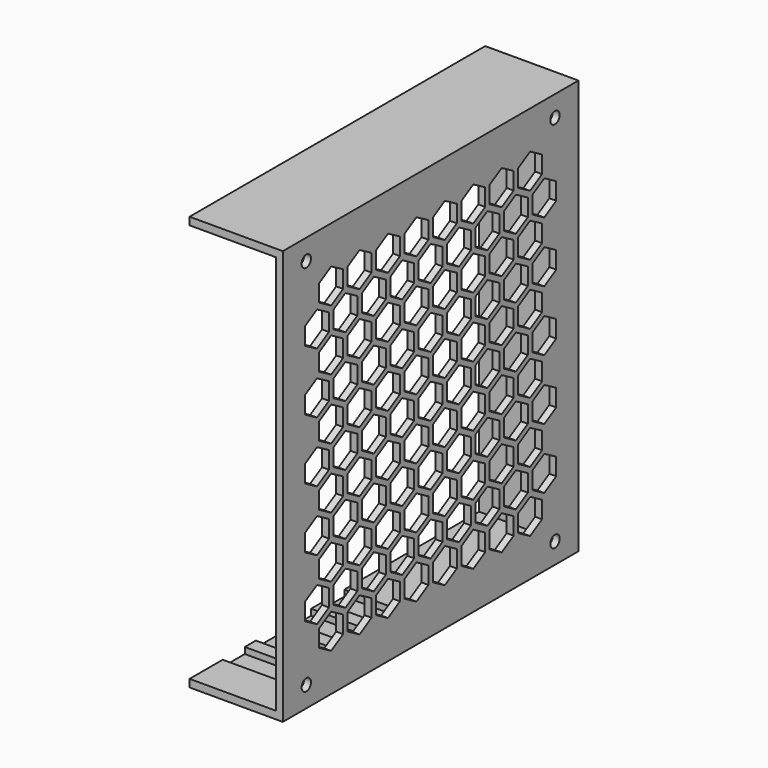
from build123d import *

# Parameters (mm, degrees)
SKETCH024_W                        = 107
SKETCH024_H                        = 120
SKETCH024_R                        = 1.7
PAD010_DEPTH                       = 2
PAD011_DEPTH                       = 25
POCKET014_DEPTH                    = 59.6
POCKET015_DEPTH                    = 353.05621
POCKET015_LINEARPATTERN_2_DEPTH    = 353.05621
POCKET015_LINEARPATTERN_3_DEPTH    = 353.05621
POCKET015_LINEARPATTERN_4_DEPTH    = 353.05621
POCKET015_LINEARPATTERN_5_DEPTH    = 353.05621
POCKET015_LINEARPATTERN_6_DEPTH    = 353.05621
POCKET015_LINEARPATTERN_7_DEPTH    = 353.05621
POCKET015_LINEARPATTERN_8_DEPTH    = 353.05621
LINEARPATTERN001_COUNT             = 6
LINEARPATTERN001_PITCH             = 17.6
POCKET016_DEPTH                    = 353.05621
POCKET016_LINEARPATTERN002_2_DEPTH = 353.05621
POCKET016_LINEARPATTERN002_3_DEPTH = 353.05621
POCKET016_LINEARPATTERN002_4_DEPTH = 353.05621
POCKET016_LINEARPATTERN002_5_DEPTH = 353.05621
POCKET016_LINEARPATTERN002_6_DEPTH = 353.05621
POCKET016_LINEARPATTERN002_7_DEPTH = 353.05621
POCKET016_LINEARPATTERN002_8_DEPTH = 353.05621
POCKET016_LINEARPATTERN002_9_DEPTH = 353.05621
LINEARPATTERN003_COUNT             = 5
LINEARPATTERN003_PITCH             = 17.557


with BuildPart() as part:
    # Sketch024 → Pad010 (new body)
    with BuildSketch(Plane.YZ.offset(25)):
        with Locations((53.5, 60)):
            Rectangle(SKETCH024_W, SKETCH024_H)
        with Locations((8.5, 114)):
            Circle(SKETCH024_R, mode=Mode.SUBTRACT)
        with Locations((98.5, 114)):
            Circle(SKETCH024_R, mode=Mode.SUBTRACT)
        with Locations((98.5, 6)):
            Circle(SKETCH024_R, mode=Mode.SUBTRACT)
        with Locations((8.5, 6)):
            Circle(SKETCH024_R, mode=Mode.SUBTRACT)
    extrude(amount=PAD010_DEPTH)

    # Sketch025 → Pad011 (join)
    with BuildSketch(Plane.YZ.offset(25)):
        Polygon((0, 0), (0, 2.2), (104.8, 2.2), (104.8, 117.8), (0, 117.8), (0, 120), (107, 120), (107, 0), align=None)
    extrude(amount=-PAD011_DEPTH)

    # Sketch026 → Pocket014 (cut, symmetric)
    with BuildSketch(Plane.XY.offset(60)):
        with BuildLine():
            Line((0, 20), (16, 20))
            ThreePointArc((16, 12), (20, 16), (16, 20))
            Line((16, 12), (0, 12))
            Line((0, 12), (0, 20))
        make_face()
        with BuildLine():
            Line((0, 32), (16, 32))
            ThreePointArc((16, 24), (20, 28), (16, 32))
            Line((16, 24), (0, 24))
            Line((0, 24), (0, 32))
        make_face()
        with BuildLine():
            Line((0, 44), (16, 44))
            ThreePointArc((16, 36), (20, 40), (16, 44))
            Line((16, 36), (0, 36))
            Line((0, 36), (0, 44))
        make_face()
        with BuildLine():
            Line((0, 56), (16, 56))
            ThreePointArc((16, 48), (20, 52), (16, 56))
            Line((16, 48), (0, 48))
            Line((0, 48), (0, 56))
        make_face()
    extrude(amount=POCKET014_DEPTH, both=True, mode=Mode.SUBTRACT)

    # Sketch027 → Pocket015 (cut, through all)
    with BuildSketch(Plane.YZ.offset(27)):
        Polygon((13.169873, 106.5), (13.169873, 101.5), (17.5, 99), (21.830127, 101.5), (21.830127, 106.5), (17.5, 109), align=None)
    pocket015 = extrude(amount=-POCKET015_DEPTH, mode=Mode.SUBTRACT)

    # Sketch027 LinearPattern 2 → Pocket015 LinearPattern 2 (cut, through all)
    with BuildSketch(Plane(origin=(27, 10.285714, 0), x_dir=(0, 1, 0), z_dir=(1, 0, 0))):
        Polygon((13.169873, 106.5), (13.169873, 101.5), (17.5, 99), (21.830127, 101.5), (21.830127, 106.5), (17.5, 109), align=None)
    pocket015_linearpattern_2 = extrude(amount=-POCKET015_LINEARPATTERN_2_DEPTH, mode=Mode.SUBTRACT)

    # Sketch027 LinearPattern 3 → Pocket015 LinearPattern 3 (cut, through all)
    with BuildSketch(Plane(origin=(27, 20.571429, 0), x_dir=(0, 1, 0), z_dir=(1, 0, 0))):
        Polygon((13.169873, 106.5), (13.169873, 101.5), (17.5, 99), (21.830127, 101.5), (21.830127, 106.5), (17.5, 109), align=None)
    pocket015_linearpattern_3 = extrude(amount=-POCKET015_LINEARPATTERN_3_DEPTH, mode=Mode.SUBTRACT)

    # Sketch027 LinearPattern 4 → Pocket015 LinearPattern 4 (cut, through all)
    with BuildSketch(Plane(origin=(27, 30.857143, 0), x_dir=(0, 1, 0), z_dir=(1, 0, 0))):
        Polygon((13.169873, 106.5), (13.169873, 101.5), (17.5, 99), (21.830127, 101.5), (21.830127, 106.5), (17.5, 109), align=None)
    pocket015_linearpattern_4 = extrude(amount=-POCKET015_LINEARPATTERN_4_DEPTH, mode=Mode.SUBTRACT)

    # Sketch027 LinearPattern 5 → Pocket015 LinearPattern 5 (cut, through all)
    with BuildSketch(Plane(origin=(27, 41.142857, 0), x_dir=(0, 1, 0), z_dir=(1, 0, 0))):
        Polygon((13.169873, 106.5), (13.169873, 101.5), (17.5, 99), (21.830127, 101.5), (21.830127, 106.5), (17.5, 109), align=None)
    pocket015_linearpattern_5 = extrude(amount=-POCKET015_LINEARPATTERN_5_DEPTH, mode=Mode.SUBTRACT)

    # Sketch027 LinearPattern 6 → Pocket015 LinearPattern 6 (cut, through all)
    with BuildSketch(Plane(origin=(27, 51.428571, 0), x_dir=(0, 1, 0), z_dir=(1, 0, 0))):
        Polygon((13.169873, 106.5), (13.169873, 101.5), (17.5, 99), (21.830127, 101.5), (21.830127, 106.5), (17.5, 109), align=None)
    pocket015_linearpattern_6 = extrude(amount=-POCKET015_LINEARPATTERN_6_DEPTH, mode=Mode.SUBTRACT)

    # Sketch027 LinearPattern 7 → Pocket015 LinearPattern 7 (cut, through all)
    with BuildSketch(Plane(origin=(27, 61.714286, 0), x_dir=(0, 1, 0), z_dir=(1, 0, 0))):
        Polygon((13.169873, 106.5), (13.169873, 101.5), (17.5, 99), (21.830127, 101.5), (21.830127, 106.5), (17.5, 109), align=None)
    pocket015_linearpattern_7 = extrude(amount=-POCKET015_LINEARPATTERN_7_DEPTH, mode=Mode.SUBTRACT)

    # Sketch027 LinearPattern 8 → Pocket015 LinearPattern 8 (cut, through all)
    with BuildSketch(Plane(origin=(27, 72, 0), x_dir=(0, 1, 0), z_dir=(1, 0, 0))):
        Polygon((13.169873, 106.5), (13.169873, 101.5), (17.5, 99), (21.830127, 101.5), (21.830127, 106.5), (17.5, 109), align=None)
    pocket015_linearpattern_8 = extrude(amount=-POCKET015_LINEARPATTERN_8_DEPTH, mode=Mode.SUBTRACT)

    # LinearPattern001: Pocket015, Pocket015 LinearPattern 2, Pocket015 LinearPattern 3, Pocket015 LinearPattern 4, Pocket015 LinearPattern 5, Pocket015 LinearPattern 6, Pocket015 LinearPattern 7, Pocket015 LinearPattern 8 ×6
    with Locations(*[(0, 0, -i * LINEARPATTERN001_PITCH) for i in range(1, LINEARPATTERN001_COUNT)]):
        add(pocket015, mode=Mode.SUBTRACT)
        add(pocket015_linearpattern_2, mode=Mode.SUBTRACT)
        add(pocket015_linearpattern_3, mode=Mode.SUBTRACT)
        add(pocket015_linearpattern_4, mode=Mode.SUBTRACT)
        add(pocket015_linearpattern_5, mode=Mode.SUBTRACT)
        add(pocket015_linearpattern_6, mode=Mode.SUBTRACT)
        add(pocket015_linearpattern_7, mode=Mode.SUBTRACT)
        add(pocket015_linearpattern_8, mode=Mode.SUBTRACT)

    # Sketch028 → Pocket016 (cut, through all)
    with BuildSketch(Plane.YZ.offset(27)):
        Polygon((12.37, 90.114), (16.700127, 92.614), (16.700127, 97.614), (12.37, 100.114), (8.039873, 97.614), (8.039873, 92.614), align=None)
    pocket016 = extrude(amount=-POCKET016_DEPTH, mode=Mode.SUBTRACT)

    # Sketch028 LinearPattern002 2 → Pocket016 LinearPattern002 2 (cut, through all)
    with BuildSketch(Plane(origin=(27, 10.2825, 0), x_dir=(0, 1, 0), z_dir=(1, 0, 0))):
        Polygon((12.37, 90.114), (16.700127, 92.614), (16.700127, 97.614), (12.37, 100.114), (8.039873, 97.614), (8.039873, 92.614), align=None)
    pocket016_linearpattern002_2 = extrude(amount=-POCKET016_LINEARPATTERN002_2_DEPTH, mode=Mode.SUBTRACT)

    # Sketch028 LinearPattern002 3 → Pocket016 LinearPattern002 3 (cut, through all)
    with BuildSketch(Plane(origin=(27, 20.565, 0), x_dir=(0, 1, 0), z_dir=(1, 0, 0))):
        Polygon((12.37, 90.114), (16.700127, 92.614), (16.700127, 97.614), (12.37, 100.114), (8.039873, 97.614), (8.039873, 92.614), align=None)
    pocket016_linearpattern002_3 = extrude(amount=-POCKET016_LINEARPATTERN002_3_DEPTH, mode=Mode.SUBTRACT)

    # Sketch028 LinearPattern002 4 → Pocket016 LinearPattern002 4 (cut, through all)
    with BuildSketch(Plane(origin=(27, 30.8475, 0), x_dir=(0, 1, 0), z_dir=(1, 0, 0))):
        Polygon((12.37, 90.114), (16.700127, 92.614), (16.700127, 97.614), (12.37, 100.114), (8.039873, 97.614), (8.039873, 92.614), align=None)
    pocket016_linearpattern002_4 = extrude(amount=-POCKET016_LINEARPATTERN002_4_DEPTH, mode=Mode.SUBTRACT)

    # Sketch028 LinearPattern002 5 → Pocket016 LinearPattern002 5 (cut, through all)
    with BuildSketch(Plane(origin=(27, 41.13, 0), x_dir=(0, 1, 0), z_dir=(1, 0, 0))):
        Polygon((12.37, 90.114), (16.700127, 92.614), (16.700127, 97.614), (12.37, 100.114), (8.039873, 97.614), (8.039873, 92.614), align=None)
    pocket016_linearpattern002_5 = extrude(amount=-POCKET016_LINEARPATTERN002_5_DEPTH, mode=Mode.SUBTRACT)

    # Sketch028 LinearPattern002 6 → Pocket016 LinearPattern002 6 (cut, through all)
    with BuildSketch(Plane(origin=(27, 51.4125, 0), x_dir=(0, 1, 0), z_dir=(1, 0, 0))):
        Polygon((12.37, 90.114), (16.700127, 92.614), (16.700127, 97.614), (12.37, 100.114), (8.039873, 97.614), (8.039873, 92.614), align=None)
    pocket016_linearpattern002_6 = extrude(amount=-POCKET016_LINEARPATTERN002_6_DEPTH, mode=Mode.SUBTRACT)

    # Sketch028 LinearPattern002 7 → Pocket016 LinearPattern002 7 (cut, through all)
    with BuildSketch(Plane(origin=(27, 61.695, 0), x_dir=(0, 1, 0), z_dir=(1, 0, 0))):
        Polygon((12.37, 90.114), (16.700127, 92.614), (16.700127, 97.614), (12.37, 100.114), (8.039873, 97.614), (8.039873, 92.614), align=None)
    pocket016_linearpattern002_7 = extrude(amount=-POCKET016_LINEARPATTERN002_7_DEPTH, mode=Mode.SUBTRACT)

    # Sketch028 LinearPattern002 8 → Pocket016 LinearPattern002 8 (cut, through all)
    with BuildSketch(Plane(origin=(27, 71.9775, 0), x_dir=(0, 1, 0), z_dir=(1, 0, 0))):
        Polygon((12.37, 90.114), (16.700127, 92.614), (16.700127, 97.614), (12.37, 100.114), (8.039873, 97.614), (8.039873, 92.614), align=None)
    pocket016_linearpattern002_8 = extrude(amount=-POCKET016_LINEARPATTERN002_8_DEPTH, mode=Mode.SUBTRACT)

    # Sketch028 LinearPattern002 9 → Pocket016 LinearPattern002 9 (cut, through all)
    with BuildSketch(Plane(origin=(27, 82.26, 0), x_dir=(0, 1, 0), z_dir=(1, 0, 0))):
        Polygon((12.37, 90.114), (16.700127, 92.614), (16.700127, 97.614), (12.37, 100.114), (8.039873, 97.614), (8.039873, 92.614), align=None)
    pocket016_linearpattern002_9 = extrude(amount=-POCKET016_LINEARPATTERN002_9_DEPTH, mode=Mode.SUBTRACT)

    # LinearPattern003: Pocket016, Pocket016 LinearPattern002 2, Pocket016 LinearPattern002 3, Pocket016 LinearPattern002 4, Pocket016 LinearPattern002 5, Pocket016 LinearPattern002 6, Pocket016 LinearPattern002 7, Pocket016 LinearPattern002 8, Pocket016 LinearPattern002 9 ×5
    with Locations(*[(0, 0, -i * LINEARPATTERN003_PITCH) for i in range(1, LINEARPATTERN003_COUNT)]):
        add(pocket016, mode=Mode.SUBTRACT)
        add(pocket016_linearpattern002_2, mode=Mode.SUBTRACT)
        add(pocket016_linearpattern002_3, mode=Mode.SUBTRACT)
        add(pocket016_linearpattern002_4, mode=Mode.SUBTRACT)
        add(pocket016_linearpattern002_5, mode=Mode.SUBTRACT)
        add(pocket016_linearpattern002_6, mode=Mode.SUBTRACT)
        add(pocket016_linearpattern002_7, mode=Mode.SUBTRACT)
        add(pocket016_linearpattern002_8, mode=Mode.SUBTRACT)
        add(pocket016_linearpattern002_9, mode=Mode.SUBTRACT)


solid = part.part
